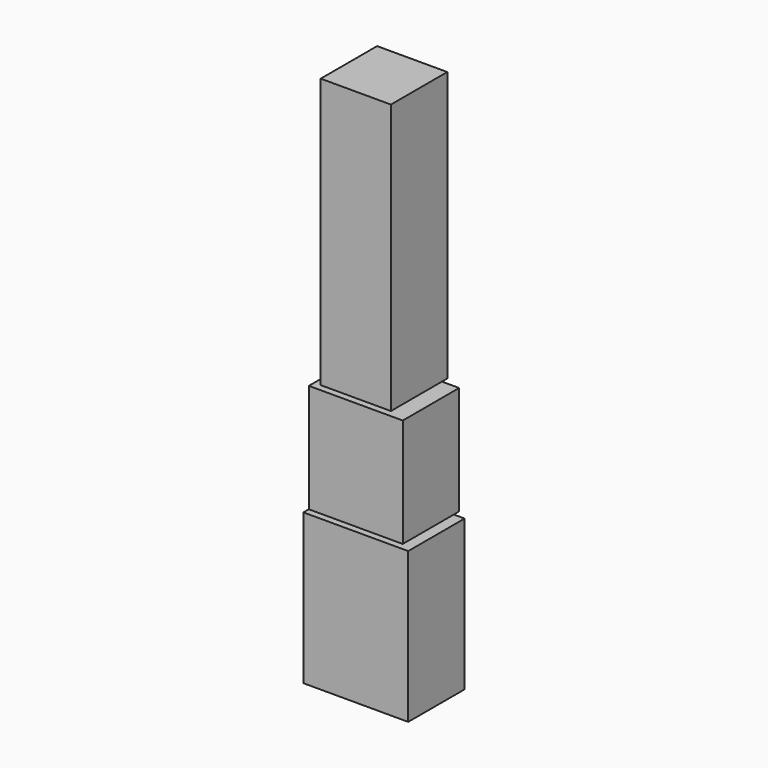
from build123d import *

# Parameters (mm, degrees)
F0_W     = 29.7434
F0_H     = 42.672
F0_W_2   = 26.6446
F0_H_2   = 30.8356
F0_W_3   = 19.9136
F0_H_3   = 76.5556
F1_DEPTH = 20


with BuildPart() as f1:
    # F0 (on Front) → F1 (new body)
    with BuildSketch(Plane.XZ):
        with Locations((14.8717, 21.336)):
            Rectangle(F0_W, F0_H)
        with Locations((14.8717, 59.3598)):
            Rectangle(F0_W_2, F0_H_2)
        with Locations((14.8717, 114.3254)):
            Rectangle(F0_W_3, F0_H_3)
    extrude(amount=-F1_DEPTH)


solid = f1.part
